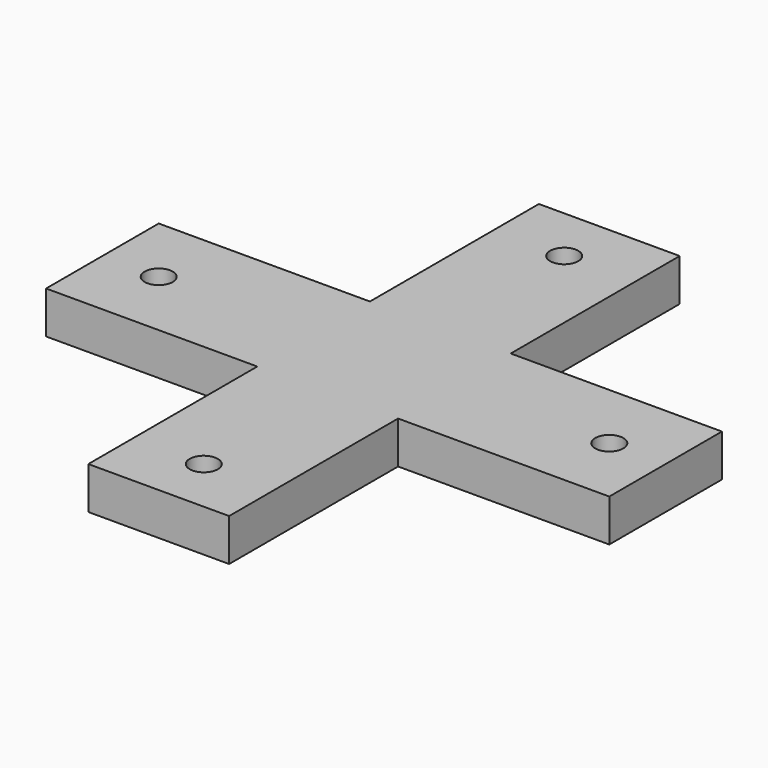
from build123d import *

# Parameters (mm, degrees)
SKETCH_R  = 2
PAD_DEPTH = 6


with BuildPart() as part:
    # Sketch → Pad (new body)
    with BuildSketch(Plane.XY):
        Polygon((-10, 40), (10, 40), (10, 10), (40, 10), (40, -10), (10, -10), (10, -40), (-10, -40), (-10, -10), (-40, -10), (-40, 10), (-10, 10), align=None)
        with Locations((-32, 0)):
            Circle(SKETCH_R, mode=Mode.SUBTRACT)
        with Locations((0, 32)):
            Circle(SKETCH_R, mode=Mode.SUBTRACT)
        with Locations((32, 0)):
            Circle(SKETCH_R, mode=Mode.SUBTRACT)
        with Locations((0, -32)):
            Circle(SKETCH_R, mode=Mode.SUBTRACT)
    extrude(amount=PAD_DEPTH)


solid = part.part
